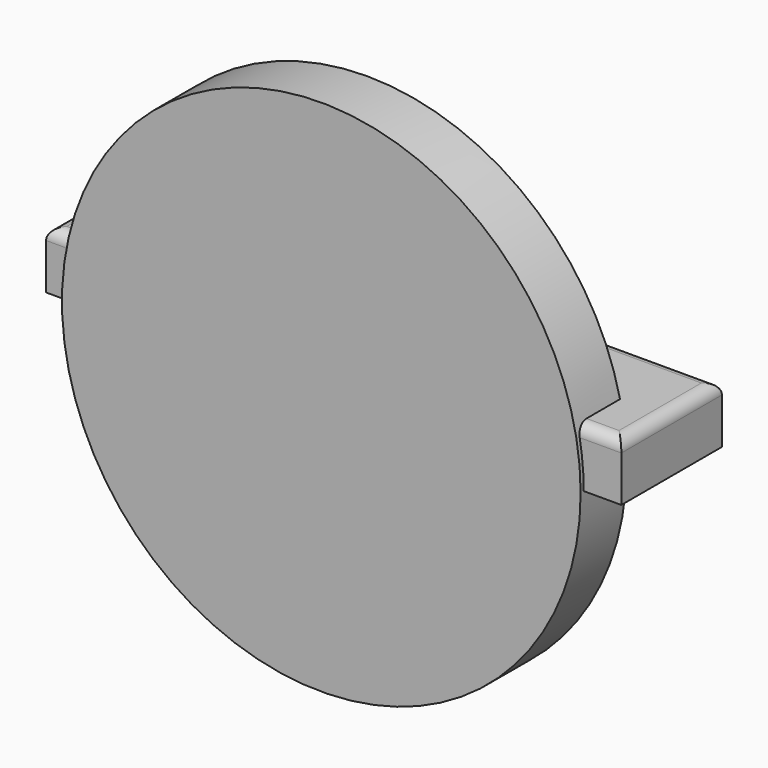
from build123d import *

# Parameters (mm, degrees)
F0_W     = 255.5162906647
F0_H     = 55.8418184519
F1_DEPTH = 25.4
F2_R     = 5.08
F3_R     = 115.1905151489
F4_DEPTH = 25.4


with BuildPart() as f1:
    # F0 (on Top) → F1 (new body)
    with BuildSketch(Plane.XY):
        with Locations((4.1319578886, 4.2407922447)):
            Rectangle(F0_W, F0_H)
    extrude(amount=F1_DEPTH)

    # F2
    f2_edges = [f1.edges().sort_by_distance(p)[0] for p in [
        (-123.626187, 4.240792, 25.4),
        (4.131958, -23.680117, 25.4),
        (131.890103, 4.240792, 25.4),
        (4.131958, 32.161701, 25.4),
    ]]
    fillet(f2_edges, radius=F2_R)

    # F3 (on Front) → F4 (join)
    with BuildSketch(Plane.XZ):
        Circle(F3_R)
    extrude(amount=F4_DEPTH)


solid = f1.part
